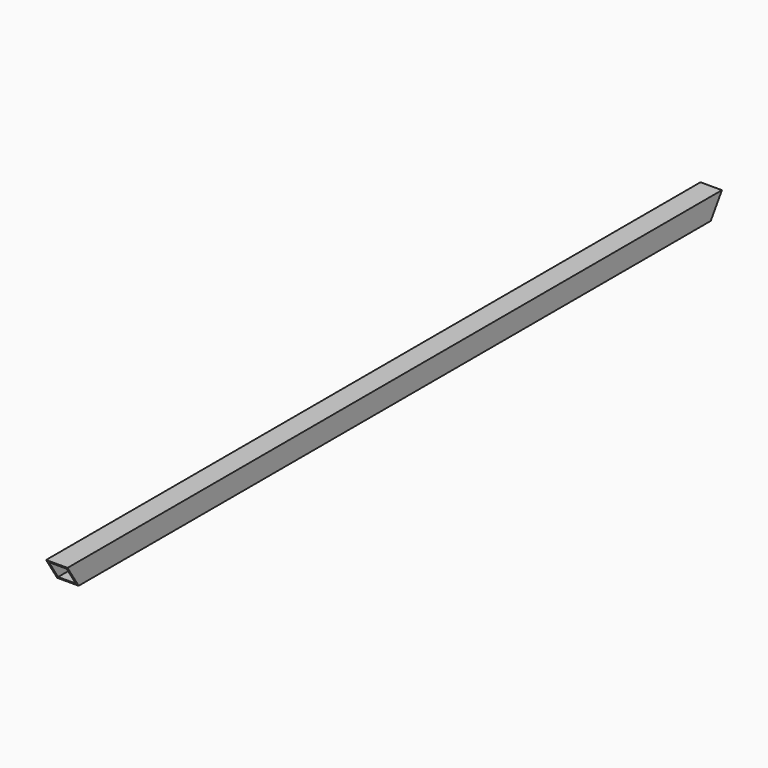
from build123d import *

# Parameters (mm, degrees)
SKETCH_W        = 31.75
SKETCH_H        = 31.75
SKETCH_W_2      = 26.2128
SKETCH_H_2      = 26.2128
PAD_DEPTH       = 1211.76796
POCKET_DEPTH    = 31.75
POCKET001_DEPTH = 31.75


with BuildPart() as part:
    # Sketch → Pad (new body)
    with BuildSketch(Plane.XZ):
        Rectangle(SKETCH_W, SKETCH_H)
        Rectangle(SKETCH_W_2, SKETCH_H_2, mode=Mode.SUBTRACT)
    extrude(amount=PAD_DEPTH)

    # Sketch001 → Pocket (cut)
    with BuildSketch(Plane(origin=(15.875, 0, 0), x_dir=(0, 0, 1), z_dir=(1, 0, 0))):
        Polygon((15.875, 0), (-15.875, 0), (-15.875, 20.637526), align=None)
    extrude(amount=-POCKET_DEPTH, mode=Mode.SUBTRACT)

    # Sketch002 → Pocket001 (cut)
    with BuildSketch(Plane(origin=(15.875, 0, 0), x_dir=(0, 0, 1), z_dir=(1, 0, 0))):
        Polygon((15.875, 1211.76796), (-15.875, 1211.76796), (-15.875, 1191.130434), align=None)
    extrude(amount=-POCKET001_DEPTH, mode=Mode.SUBTRACT)


solid = part.part
